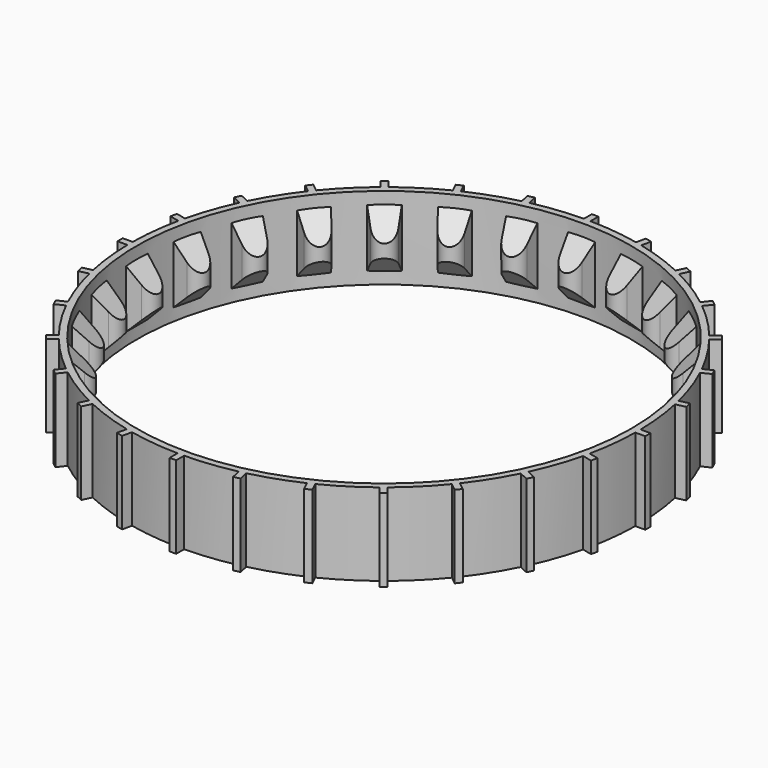
from build123d import *

# Parameters (mm, degrees)
SKETCH006_R      = 30.83
SKETCH006_R_2    = 30.03
EXTRUDE003_DEPTH = 5
EXTRUDE001_DEPTH = 10
EXTRUDE002_DEPTH = 5
ARRAY_COUNT      = 28


with BuildPart() as extrude003:
    # Sketch006 → Extrude003 (new body, symmetric)
    with BuildSketch(Plane.XY):
        Circle(SKETCH006_R)
        Circle(SKETCH006_R_2, mode=Mode.SUBTRACT)
    extrude(amount=EXTRUDE003_DEPTH, both=True)


with BuildPart() as extrude001:
    # Sketch005 → Extrude001 (new body, symmetric)
    with BuildSketch(Plane.XY):
        with BuildLine():
            ThreePointArc((1.32406, -28.366628), (0, -27.28), (-1.32406, -28.366628))
            Line((-1.774273, -30.63), (-1.32406, -28.366628))
            Line((-1.774273, -30.63), (-0.4, -30.63))
            Line((-0.4, -30.63), (-0.4, -32.03))
            Line((-0.4, -32.03), (0.4, -32.03))
            Line((0.4, -32.03), (0.4, -30.63))
            Line((0.4, -30.63), (1.774273, -30.63))
            Line((1.32406, -28.366628), (1.774273, -30.63))
        make_face()
    extrude(amount=EXTRUDE001_DEPTH, both=True)


with BuildPart() as thread:
    # Sketch007 → Extrude002 (new body, symmetric)
    with BuildSketch(Plane.YZ):
        Polygon((-27.23, 0.75), (-27.23, -0.75), (-30.03, -3.55), (-30.23, -3.55), (-30.23, -5), (-35.23, -5), (-35.23, 5), (-30.23, 5), (-30.23, 3.55), (-30.03, 3.55), align=None)
    extrude(amount=EXTRUDE002_DEPTH, both=True)

    # Common: intersect Extrude001
    add(extrude001.part, mode=Mode.INTERSECT)

    # Array: Thread ×28 about axis
    array_axis = Axis((0, 0, 0), (0, 0, 1))


with BuildPart() as thread_1:
    add(thread.part)
    for i in range(1, ARRAY_COUNT):
        add(thread.part.rotate(array_axis, i * 360 / ARRAY_COUNT))

    # Fusion001: union Extrude003
    add(extrude003.part)


solid = thread_1.part
